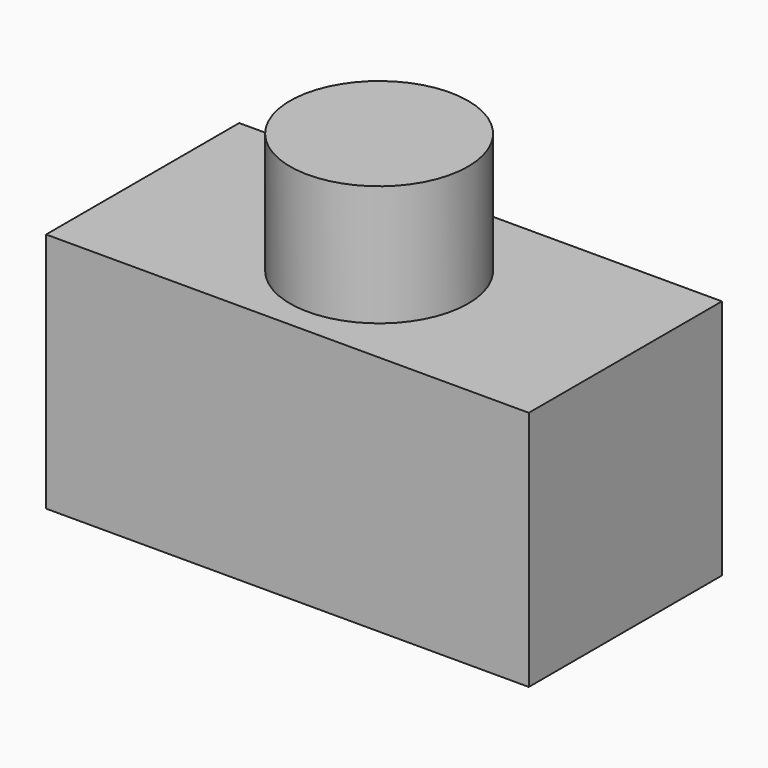
from build123d import *

# Parameters (mm, degrees)
F0_W     = 200
F0_H     = 100
F1_DEPTH = 100
F2_R     = 36.887858
F3_DEPTH = 50


with BuildPart() as f1:
    # F0 (on Front) → F1 (new body)
    with BuildSketch(Plane.XZ):
        Rectangle(F0_W, F0_H)
    extrude(amount=-F1_DEPTH)

    # F2 (on face) → F3 (join)
    with BuildSketch(Plane.XY.offset(50)):
        with Locations((0, 47.454495)):
            Circle(F2_R)
    extrude(amount=F3_DEPTH)


solid = f1.part
